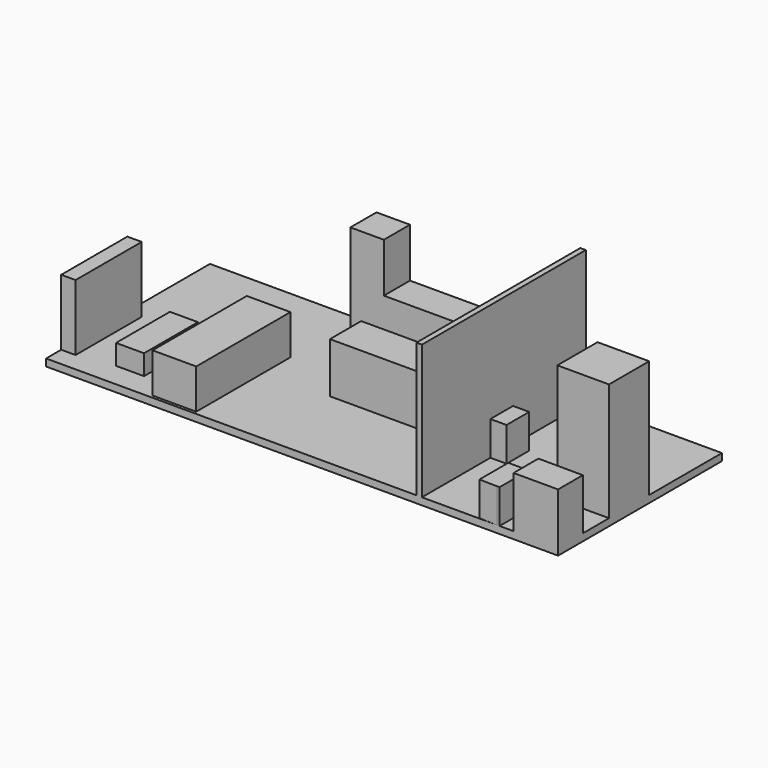
from build123d import *

# Parameters (mm, degrees)
F0_W      = 9144
F0_H      = 3657.6
F1_DEPTH  = 127
F3_W      = 780.0215498552
F3_H      = 2103.2353639603
F4_DEPTH  = 711.2
F3_W_2    = 500.3285744119
F3_H_2    = 1202.8086185455
F5_DEPTH  = 360.68
F3_W_3    = 256.6292881966
F3_H_3    = 1476.8042564392
F6_DEPTH  = 1178.56
F3_W_4    = 597.8105068207
F3_H_4    = 582.6244354248
F7_DEPTH  = 1778
F3_W_5    = 2640.3298377991
F8_DEPTH  = 899.16
F3_W_6    = 1561.7445614128
F3_H_5    = 697.4456310272
F9_DEPTH  = 899.16
F3_W_7    = 288.4268760681
F3_H_6    = 505.6204795837
F10_DEPTH = 609.6
F11_DEPTH = 609.6
F3_W_8    = 922.5062789917
F3_H_7    = 896.7530727386
F12_DEPTH = 2103.12
F13_DEPTH = 914.4
F14_DEPTH = 2400.3


with BuildPart() as f1:
    # F0 (on Top) → F1 (new body)
    with BuildSketch(Plane.XY):
        with Locations((4572, -1828.8)):
            Rectangle(F0_W, F0_H)
    extrude(amount=-F1_DEPTH)

    # F3 (on face) → F4 (join)
    with BuildSketch(Plane.XY):
        with Locations((2249.5587476067, -2553.6286234856)):
            Rectangle(F3_W, F3_H)
    extrude(amount=F4_DEPTH)

    # F3 (on face) → F6 (join)
    with BuildSketch(Plane.XY):
        with Locations((128.3146440983, -2581.7420482635)):
            Rectangle(F3_W_3, F3_H_3)
    extrude(amount=F6_DEPTH)

    # F3 (on face) → F7 (join)
    with BuildSketch(Plane.XY):
        with Locations((3273.8000154495, -291.3122177124)):
            Rectangle(F3_W_4, F3_H_4)
    extrude(amount=F7_DEPTH)

    # F3 (on face) → F8 (join)
    with BuildSketch(Plane.XY):
        with Locations((4892.8701877594, -291.3122177124)):
            Rectangle(F3_W_5, F3_H_4)
    extrude(amount=F8_DEPTH)

    # F3 (on face) → F9 (join)
    with BuildSketch(Plane.XY):
        with Locations((4586.0595060482, -1728.4280061722)):
            Rectangle(F3_W_6, F3_H_5)
    extrude(amount=F9_DEPTH)

    # F3 (on face) → F10 (join)
    with BuildSketch(Plane.XY):
        with Locations((6856.6510677338, -1876.5382766724)):
            Rectangle(F3_W_7, F3_H_6)
    extrude(amount=F10_DEPTH)

    # F3 (on face) → F11 (join)
    with BuildSketch(Plane.XY):
        Polygon((7733.6378097534, -3650.4342556), (8048.9305633538, -3657.6), (8098.9665985107, -3657.6), (8098.9665985107, -3006.9575309753), (7733.6378097534, -3006.9575309753), align=None)
    extrude(amount=F11_DEPTH)

    # F3 (on face) → F12 (join)
    with BuildSketch(Plane.XY):
        with Locations((8682.7468605042, -2072.1045732498)):
            Rectangle(F3_W_8, F3_H_7)
    extrude(amount=F12_DEPTH)

    # F3 (on face) → F13 (join)
    with BuildSketch(Plane.XY):
        Polygon((8348.0539321899, -3102.441072464), (8348.0539321899, -3657.6), (9144, -3657.6), (9144, -3106.5671256875), align=None)
    extrude(amount=F13_DEPTH)

    # F3 (on face) → F14 (join)
    with BuildSketch(Plane.XY):
        Polygon((6614.8972511292, 0), (6614.8972511292, -3657.6), (6712.4376296997, -3657.6), (6712.4376296997, -3156.0730934143), (6712.4376296997, -2129.3485164642), (6712.4376296997, -1623.7280368805), (6712.4376296997, -1578.0365467072), (6712.4376296997, 0), align=None)
    extrude(amount=F14_DEPTH)


with BuildPart() as f5:
    # F3 (on face) → F5 (new body)
    with BuildSketch(Plane.XY):
        with Locations((1150.9523559773, -2620.7317113876)):
            Rectangle(F3_W_2, F3_H_2)
    extrude(amount=F5_DEPTH)


solid = Compound([f1.part, f5.part])
